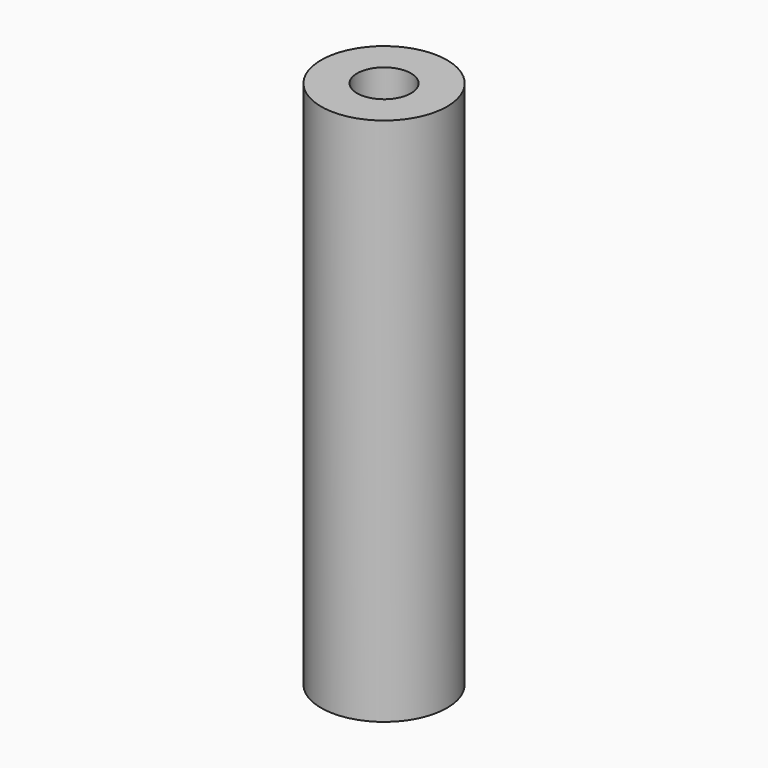
from build123d import *

# Parameters (mm, degrees)
F0_R     = 5.95
F1_DEPTH = 50
F3_D     = 2.5
F4_R     = 2.55
F4_R_2   = 1.25
F5_DEPTH = 25


with BuildPart() as f1:
    # F0 (on Top) → F1 (new body)
    with BuildSketch(Plane.XY):
        Circle(F0_R)
    extrude(amount=F1_DEPTH)

    # F3 (through all)
    with Locations(Plane(origin=(0, 0, 0), x_dir=(1, 0, 0), z_dir=(0, 0, -1))):
        with Locations((0, 0)):
            Hole(F3_D / 2)

    # F4 (on face) → F5 (cut)
    with BuildSketch(Plane.XY.offset(50)):
        Circle(F4_R)
        Circle(F4_R_2, mode=Mode.SUBTRACT)
    extrude(amount=-F5_DEPTH, mode=Mode.SUBTRACT)


solid = f1.part
